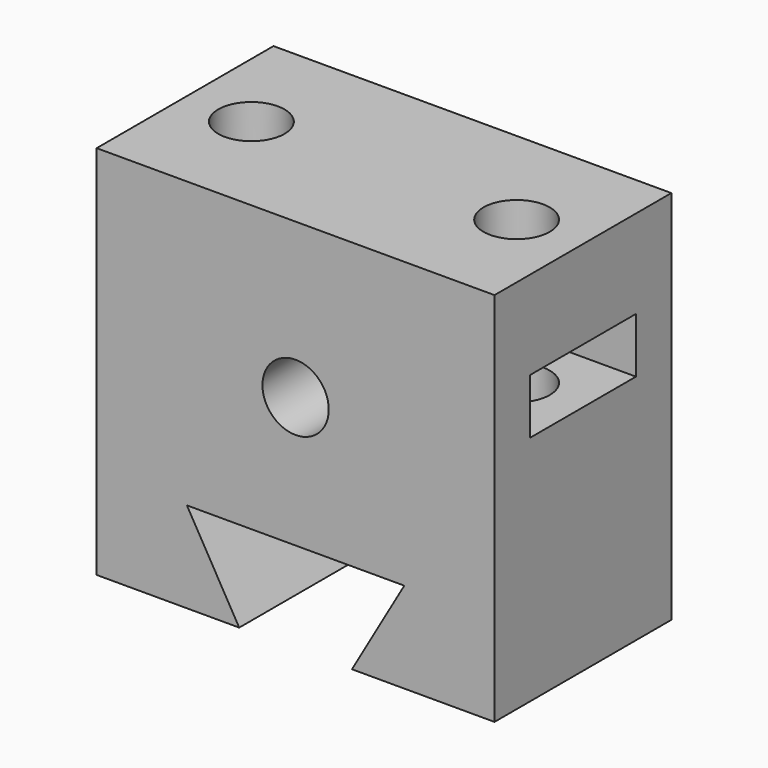
from build123d import *

# Parameters (mm, degrees)
SKETCH_W        = 18
SKETCH_H        = 10
PAD_DEPTH       = 17
SKETCH009_R     = 1.5
POCKET_DEPTH    = 4
POCKET001_DEPTH = 2.5
POCKET002_DEPTH = 10.001
SKETCH012_R     = 1.5
POCKET003_DEPTH = 10.001


with BuildPart() as part:
    # Sketch → Pad (new body)
    with BuildSketch(Plane.XY):
        with Locations((9, 5)):
            Rectangle(SKETCH_W, SKETCH_H)
    extrude(amount=PAD_DEPTH)

    # Sketch009 (on DatumPlane) → Pocket (cut, symmetric)
    with BuildSketch(Plane.XY.offset(13)):
        with Locations((3, 5)):
            Circle(SKETCH009_R)
        with Locations((15, 5)):
            Circle(SKETCH009_R)
    extrude(amount=POCKET_DEPTH, both=True, mode=Mode.SUBTRACT)

    # Sketch010 (on DatumPlane) → Pocket001 (cut)
    with BuildSketch(Plane.XY.offset(13)):
        Polygon((4.732051, 2), (6.464102, 5), (4.732051, 8), (1.267949, 8), (0, 8), (0, 2), (1.267949, 2), align=None)
        Polygon((16.732051, 8), (13.267949, 8), (11.535898, 5), (13.267949, 2), (16.732051, 2), (18, 2), (18, 8), align=None)
    extrude(amount=-POCKET001_DEPTH, mode=Mode.SUBTRACT)

    # Sketch011 → Pocket002 (cut, through all)
    with BuildSketch(Plane.XZ):
        Polygon((6.45, 0), (11.55, 0), (13.917136, 4.1), (4.082864, 4.1), align=None)
    extrude(amount=-POCKET002_DEPTH, mode=Mode.SUBTRACT)

    # Sketch012 → Pocket003 (cut, through all)
    with BuildSketch(Plane.XZ):
        with Locations((9, 10)):
            Circle(SKETCH012_R)
    extrude(amount=-POCKET003_DEPTH, mode=Mode.SUBTRACT)


solid = part.part
